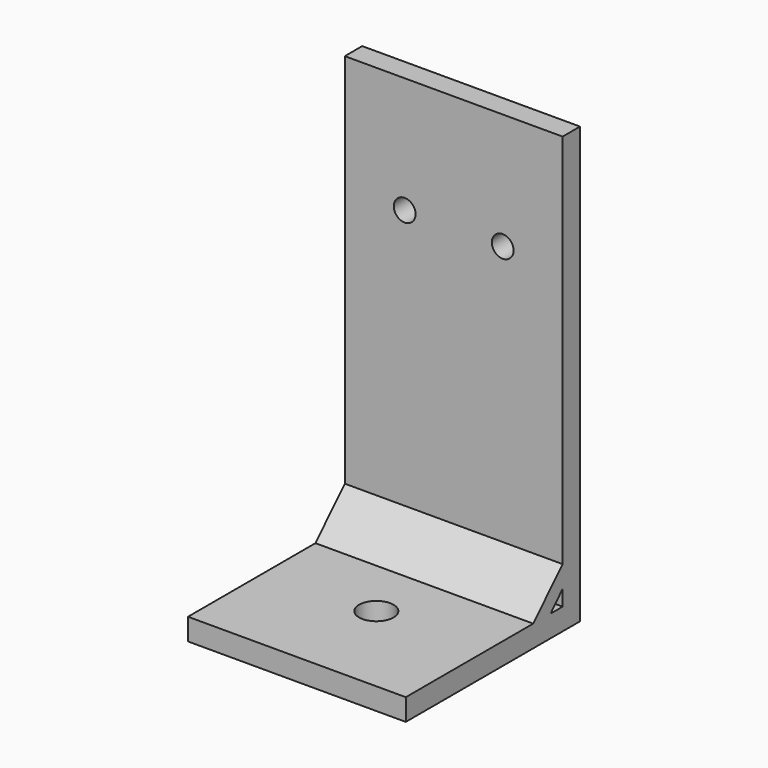
from build123d import *

# Parameters (mm, degrees)
F0_W      = 30
F0_H      = 30
F1_DEPTH  = 3
F2_W      = 30
F2_H      = 3
F3_DEPTH  = 57
F4_R      = 2.375
F5_DEPTH  = 3
F6_R      = 1.5
F7_DEPTH  = 3
F10_DEPTH = 30


with BuildPart() as f1:
    # F0 (on Top) → F1 (new body)
    with BuildSketch(Plane.XY):
        Rectangle(F0_W, F0_H)
    extrude(amount=F1_DEPTH)

    # F2 (on face) → F3 (join)
    with BuildSketch(Plane.XY.offset(3)):
        with Locations((0, 13.5)):
            Rectangle(F2_W, F2_H)
    extrude(amount=F3_DEPTH)

    # F4 (on face) → F5 (cut, through all)
    with BuildSketch(Plane.XY.offset(3)):
        with Locations((0, -1.3210215056)):
            Circle(F4_R)
    extrude(amount=-F5_DEPTH, mode=Mode.SUBTRACT)

    # F6 (on face) → F7 (cut, through all)
    with BuildSketch(Plane.XZ.offset(-12)):
        with Locations((-6.75, 44)):
            Circle(F6_R)
        with BuildLine():
            ThreePointArc((8.25, 44), (6.75, 45.5), (5.25, 44))
            ThreePointArc((5.25, 44), (6.75, 42.5), (8.25, 44))
        make_face()
    extrude(amount=-F7_DEPTH, mode=Mode.SUBTRACT)

    # F9 (on offset) → F10 (join, through all)
    with BuildSketch(Plane(origin=(-15, 0, 0), x_dir=(0, -1, 0), z_dir=(-1, 0, 0))):
        Polygon((-12, 5.1583419554), (-9.9405581132, 3), (-6.9405581132, 3), (-12, 8.1583419554), align=None)
    extrude(amount=-F10_DEPTH)


solid = f1.part
